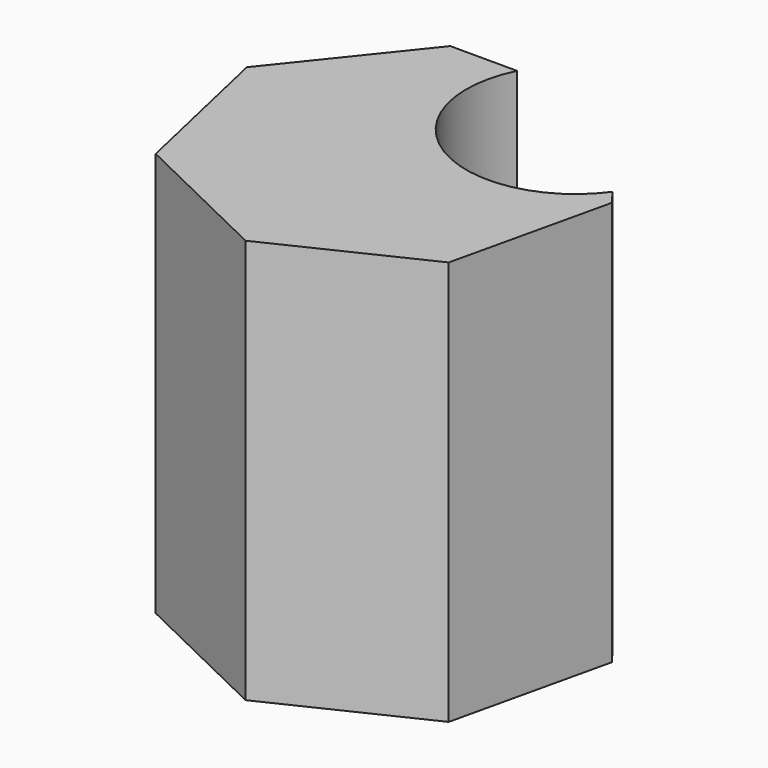
from build123d import *

# Parameters (mm, degrees)
F1_DEPTH = 13.462
F3_DEPTH = 25.4


with BuildPart() as f1:
    # F0 (on Top) → F1 (new body)
    with BuildSketch(Plane.XY):
        Polygon((-2.439337, -0.768459), (2.439337, -3.128841), (7.326563, -0.786214), (8.542159, 4.495377), (5.170756, 8.738786), (-0.24891, 8.748639), (-3.63572, 4.517518), align=None)
    extrude(amount=F1_DEPTH)

    # F2 (on face) → F3 (cut)
    with BuildSketch(Plane.XY.offset(13.462)):
        with BuildLine():
            Line((5.170756, 8.738786), (1.981119, 8.744585))
            ThreePointArc((1.981119, 8.744585), (3.333448, 4.010278), (8.161868, 4.974029))
            Line((8.161868, 4.974029), (5.170756, 8.738786))
        make_face()
    extrude(amount=-F3_DEPTH, mode=Mode.SUBTRACT)


solid = f1.part
